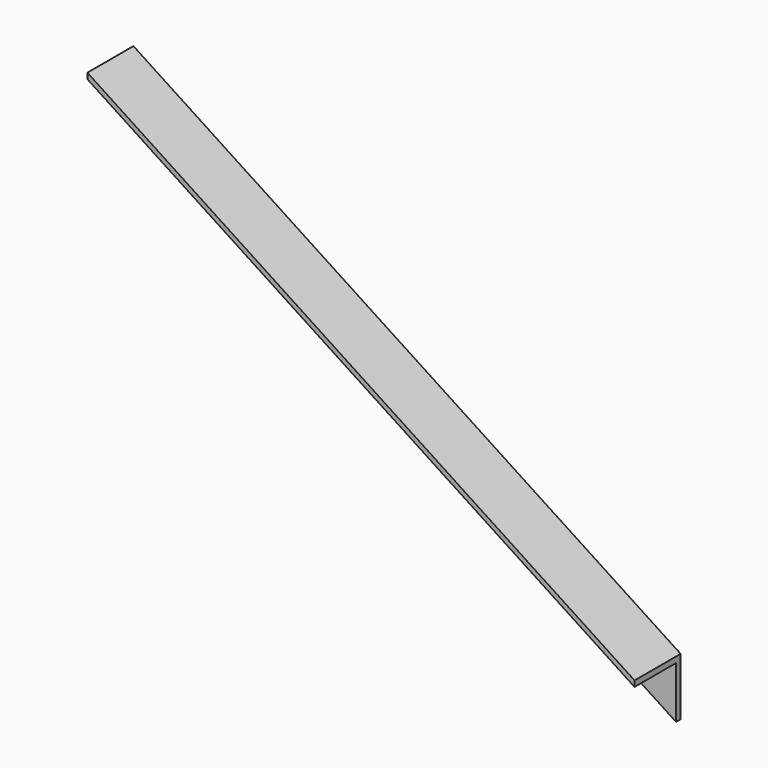
from build123d import *

# Parameters (mm, degrees)
F1_DEPTH = 10
F3_DEPTH = 90


with BuildPart() as f1:
    # F0 (on Front) → F1 (new body)
    with BuildSketch(Plane.XZ):
        Polygon((475, -360), (-475, 260), (-475, 160), (475, -460), align=None)
    extrude(amount=F1_DEPTH)

    # F2 (on face) → F3 (join)
    with BuildSketch(Plane.XZ.offset(10)):
        Polygon((475, -360), (-475, 260), (-475, 250), (475, -370), align=None)
    extrude(amount=F3_DEPTH)


solid = f1.part
